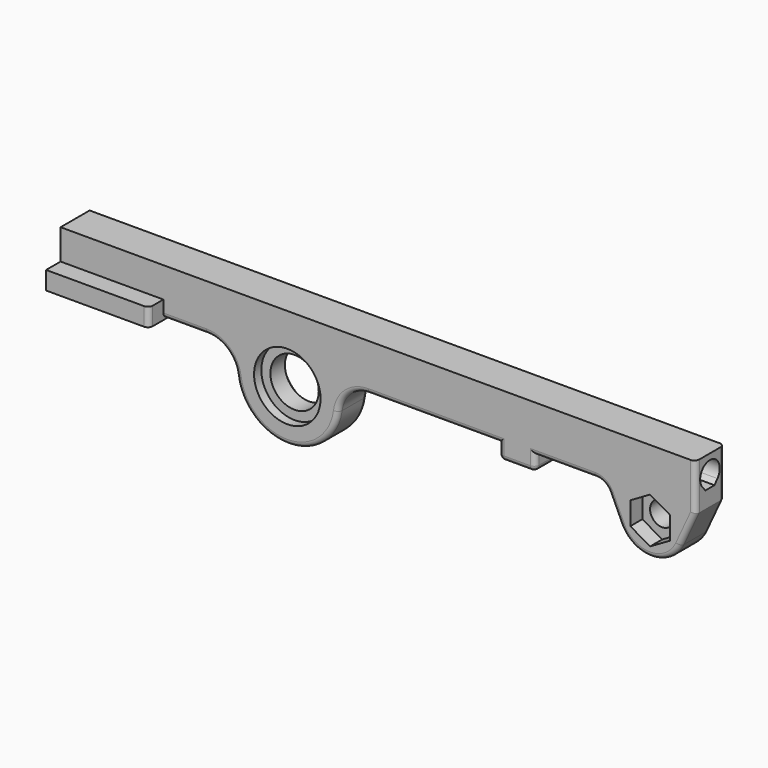
from build123d import *

# Parameters (mm, degrees)
CYLINDER074_R             = 11
CYLINDER074_DEPTH         = 10
CYLINDER075_R             = 8
CYLINDER075_DEPTH         = 28
CYLINDER076_R             = 11
CYLINDER076_DEPTH         = 10
CYLINDER083_R             = 1.7
CYLINDER083_DEPTH         = 21
BOX019_W                  = 23
BOX019_H                  = 5.2
BOX019_DEPTH              = 3
PRISM012_DEPTH            = 3
FUSION068_ROLL_ANGLE      = 180
FUSION068_PLACEMENT_ANGLE = 90
EXTRUDE034_DEPTH          = 275
CYLINDER085_R             = 4
CYLINDER085_DEPTH         = 70
PRISM013_DEPTH            = 6
FUSION069_PITCH_ANGLE     = -90
FUSION069_PLACEMENT_ANGLE = -90
CYLINDER073_R             = 11
CYLINDER073_DEPTH         = 10
BOX018_W                  = 34
BOX018_H                  = 24
BOX018_DEPTH              = 6
CYLINDER081_R             = 2.9
CYLINDER081_DEPTH         = 2
CYLINDER082_R             = 2.9
CYLINDER082_DEPTH         = 2
CYLINDER084_R             = 7
CYLINDER084_DEPTH         = 3
EXTRUDE032_DEPTH          = 6
FILLET005_R               = 1.6


with BuildPart() as cilindro074:
    # Cylinder074 → Cylinder074 (new body)
    with BuildSketch(Plane(origin=(83, 3, 55), x_dir=(1, 0, 0), z_dir=(0, 1, 0))):
        Circle(CYLINDER074_R)
    extrude(amount=CYLINDER074_DEPTH)


with BuildPart() as cilindro075:
    # Cylinder075 → Cylinder075 (new body)
    with BuildSketch(Plane(origin=(83, -14, 55), x_dir=(1, 0, 0), z_dir=(0, 1, 0))):
        Circle(CYLINDER075_R)
    extrude(amount=CYLINDER075_DEPTH)


with BuildPart() as cilindro076:
    # Cylinder076 → Cylinder076 (new body)
    with BuildSketch(Plane(origin=(83, -3, 55), x_dir=(1, 0, 0), z_dir=(0, -1, 0))):
        Circle(CYLINDER076_R)
    extrude(amount=CYLINDER076_DEPTH)


with BuildPart() as cilindro083:
    # Cylinder083 → Cylinder083 (new body)
    with BuildSketch(Plane.XY.offset(-6)):
        Circle(CYLINDER083_R)
    extrude(amount=CYLINDER083_DEPTH)


with BuildPart() as cubo018:
    # Box019 → Box019 (new body)
    with BuildSketch(Plane(origin=(0, -2.6, 0), x_dir=(1, 0, 0), z_dir=(0, 0, 1))):
        with Locations((11.5, 2.6)):
            Rectangle(BOX019_W, BOX019_H)
    extrude(amount=BOX019_DEPTH)


with BuildPart() as hueco_tornillo004:
    # Prism012 → Prism012 (new body)
    with BuildSketch(Plane.XY):
        Polygon((3, 0), (1.5, 2.598076), (-1.5, 2.598076), (-3, 0), (-1.5, -2.598076), (1.5, -2.598076), align=None)
    extrude(amount=PRISM012_DEPTH)

    # Fusion068: union Cilindro083, Cubo018
    add(cilindro083.part)
    add(cubo018.part)


with BuildPart() as hueco_tornillo004_1:
    # Fusion068 roll: moved
    add(hueco_tornillo004.part.rotate(Axis((0, 0, 0), (1, 0, 0)), FUSION068_ROLL_ANGLE))


with BuildPart() as hueco_tornillo004_2:
    # Fusion068 placement: moved
    add(hueco_tornillo004_1.part.moved(Location((159, 0, 62))).rotate(Axis((159, 0, 62), (0, 0, 1)), FUSION068_PLACEMENT_ANGLE))


with BuildPart() as extrude034:
    # Sketch026 → Extrude034 (new body)
    with BuildSketch(Plane.YZ):
        with BuildLine():
            ThreePointArc((3.10248, -2.60329), (0, 4.05), (-3.10248, -2.60329))
            Line((-3.10248, -2.60329), (-1.888546, -4.05))
            Line((-1.888546, -4.05), (0, -4.05))
            Line((0, -4.05), (1.888546, -4.05))
            Line((3.10248, -2.60329), (1.888546, -4.05))
        make_face()
    extrude(amount=EXTRUDE034_DEPTH)


with BuildPart() as extrude034_1:
    # Extrude034 placement: moved
    add(extrude034.part.moved(Location((0, 0, 71))))


with BuildPart() as cilindro085:
    # Cylinder085 → Cylinder085 (new body)
    with BuildSketch(Plane.XY):
        Circle(CYLINDER085_R)
    extrude(amount=CYLINDER085_DEPTH)


with BuildPart() as tornillo_m010:
    # Prism013 → Prism013 (new body)
    with BuildSketch(Plane.XY):
        Polygon((7.55, 0), (3.775, 6.538492), (-3.775, 6.538492), (-7.55, 0), (-3.775, -6.538492), (3.775, -6.538492), align=None)
    extrude(amount=PRISM013_DEPTH)

    # Fusion069: union Cilindro085
    add(cilindro085.part)


with BuildPart() as tornillo_m010_1:
    # Fusion069 pitch: moved
    add(tornillo_m010.part.rotate(Axis((0, 0, 0), (0, 1, 0)), FUSION069_PITCH_ANGLE))


with BuildPart() as tornillo_m010_2:
    # Fusion069 placement: moved
    add(tornillo_m010_1.part.moved(Location((203, -7, 55))).rotate(Axis((203, -7, 55), (0, 0, 1)), FUSION069_PLACEMENT_ANGLE))


with BuildPart() as fusion065:
    # Cylinder073 → Cylinder073 (new body)
    with BuildSketch(Plane(origin=(83, -3, 55), x_dir=(1, 0, 0), z_dir=(0, -1, 0))):
        Circle(CYLINDER073_R)
    extrude(amount=CYLINDER073_DEPTH)

    # Fusion065: union Cilindro074, Cilindro075, Cilindro076, hueco_tornillo004, Extrude034, Tornillo_M010
    add(cilindro074.part)
    add(cilindro075.part)
    add(cilindro076.part)
    add(hueco_tornillo004_2.part)
    add(extrude034_1.part)
    add(tornillo_m010_2.part)


with BuildPart() as cubo017:
    # Box018 → Box018 (new body)
    with BuildSketch(Plane(origin=(8, -12, 61), x_dir=(1, 0, 0), z_dir=(0, 0, 1))):
        with Locations((17, 12)):
            Rectangle(BOX018_W, BOX018_H)
    extrude(amount=BOX018_DEPTH)


with BuildPart() as cilindro081:
    # Cylinder081 → Cylinder081 (new body)
    with BuildSketch(Plane(origin=(35, 6, 61), x_dir=(1, 0, 0), z_dir=(0, 0, -1))):
        Circle(CYLINDER081_R)
    extrude(amount=CYLINDER081_DEPTH)


with BuildPart() as cilindro082:
    # Cylinder082 → Cylinder082 (new body)
    with BuildSketch(Plane(origin=(15, -6, 61), x_dir=(1, 0, 0), z_dir=(0, 0, -1))):
        Circle(CYLINDER082_R)
    extrude(amount=CYLINDER082_DEPTH)


with BuildPart() as cilindro084:
    # Cylinder084 → Cylinder084 (new body)
    with BuildSketch(Plane(origin=(203, 6, 55), x_dir=(1, 0, 0), z_dir=(0, 1, 0))):
        Circle(CYLINDER084_R)
    extrude(amount=CYLINDER084_DEPTH)


with BuildPart() as fillet005:
    # Sketch024 → Extrude032 (new body, symmetric)
    with BuildSketch(Plane.XZ):
        with BuildLine():
            Line((8, 77), (218, 77))
            Line((218, 77), (218, 61.5))
            Line((218, 61.5), (212.987446, 50.640129))
            ThreePointArc((193.012554, 50.640129), (203, 44.25), (212.987446, 50.640129))
            Line((193.012554, 50.640129), (189.340668, 58.595396))
            ThreePointArc((189.340668, 58.595396), (187.495639, 60.711709), (184.80092, 61.5))
            Line((165, 61.5), (184.80092, 61.5))
            Line((165, 56.5), (165, 61.5))
            Line((153, 56.5), (165, 56.5))
            Line((153, 61.5), (153, 56.5))
            Line((109.772187, 61.5), (153, 61.5))
            ThreePointArc((109.772187, 61.5), (103.17533, 59.015416), (99.856562, 52.796296))
            ThreePointArc((66.143438, 52.796296), (83, 38), (99.856562, 52.796296))
            ThreePointArc((66.143438, 52.796296), (62.82467, 59.015416), (56.227813, 61.5))
            Line((8, 61.5), (56.227813, 61.5))
            Line((8, 77), (8, 61.5))
        make_face()
    extrude(amount=EXTRUDE032_DEPTH, both=True)

    # Fusion066: union Cubo017, Cilindro081, Cilindro082, Cilindro084
    add(cubo017.part)
    add(cilindro081.part)
    add(cilindro082.part)
    add(cilindro084.part)

    # Cut024: cut Fusion065
    add(fusion065.part, mode=Mode.SUBTRACT)

    # Fillet005
    fillet005_edges = [fillet005.edges().sort_by_distance(p)[0] for p in [
        (218, 6, 69.25),
        (215.493723, 6, 56.070064),
        (49.113906, 6, 61.5),
        (203, 6, 44.25),
        (62.82467, 6, 59.015416),
        (191.176611, 6, 54.617762),
        (83, 6, 38),
        (187.495639, 6, 60.711709),
        (103.17533, 6, 59.015416),
        (174.90046, 6, 61.5),
        (131.386094, 6, 61.5),
        (165, 6, 59),
        (153, 6, 59),
        (159, 6, 56.5),
        (218, -6, 69.25),
        (42, 12, 64),
        (42, -12, 64),
        (215.493723, -6, 56.070064),
        (203, -6, 44.25),
        (62.82467, -6, 59.015416),
        (191.176611, -6, 54.617762),
        (83, -6, 38),
        (187.495639, -6, 60.711709),
        (103.17533, -6, 59.015416),
        (174.90046, -6, 61.5),
        (131.386094, -6, 61.5),
        (165, 0, 56.5),
        (165, -6, 59),
        (153, 0, 56.5),
        (153, -6, 59),
        (159, -6, 56.5),
    ]]
    fillet(fillet005_edges, radius=FILLET005_R)


solid = fillet005.part
